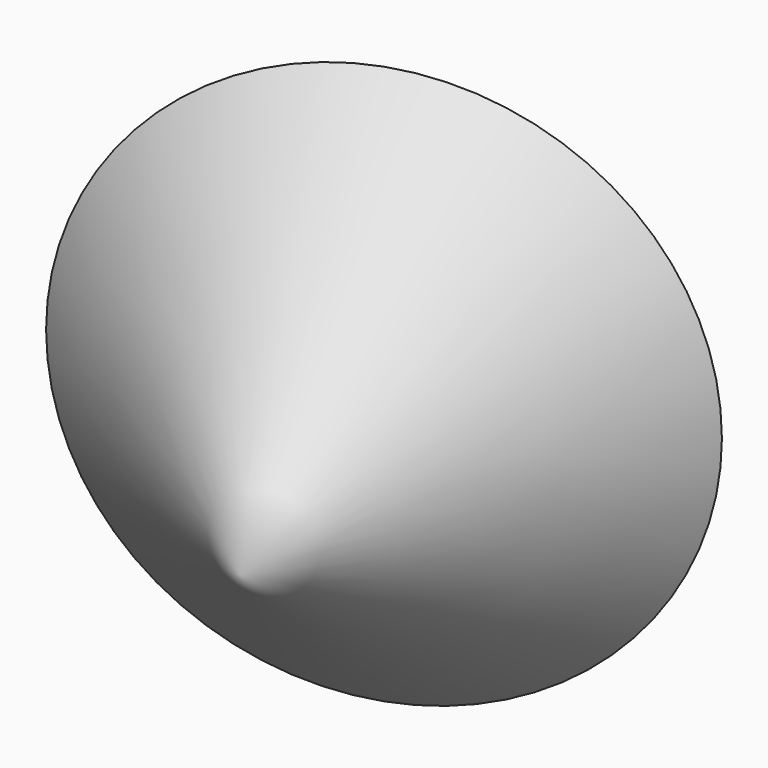
from build123d import *


with BuildPart() as f1:
    # F0 (on Top) → F1 (revolve)
    with BuildSketch(Plane.XY):
        Polygon((46.5379245579, 27.7465879917), (-5.4318727925, 28.33381854), (20.4062201083, -44.7762385011), align=None)
    revolve(axis=Axis((7.4871736579, -8.2212099805, 0), (0.3332162247, -0.9428504375, 0)))


solid = f1.part
